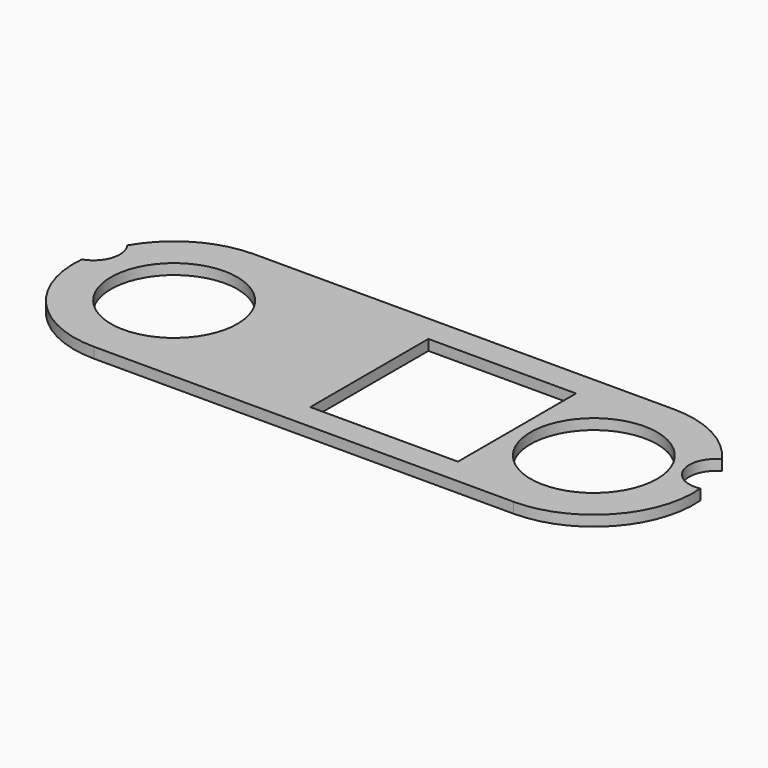
from build123d import *

# Parameters (mm, degrees)
F0_R     = 1.5875
F1_DEPTH = 1
F2_R     = 1.625
F2_R_2   = 2
F2_R_3   = 6
F2_W     = 14
F2_H     = 14
F2_W_2   = 23.3
F2_H_2   = 14.8
F2_W_3   = 13
F2_H_3   = 9.9
F3_DEPTH = 1.001
F7_DEPTH = 1.001


with BuildPart() as f1:
    # F0 (on Top) → F1 (new body)
    with BuildSketch(Plane.XY):
        with BuildLine():
            Line((-53.6, -21.2), (53.6, -21.2))
            ThreePointArc((53.6, -21.2), (55.014214, -20.614214), (55.6, -19.2))
            Line((55.6, -19.2), (55.6, -10.9))
            ThreePointArc((55.6, -10.9), (55.746447, -10.546447), (56.1, -10.4))
            Line((56.1, -10.4), (61.2, -10.4))
            ThreePointArc((61.2, -10.4), (64.278275, -9.506617), (66.4, -7.104078))
            Line((66.4, -7.104078), (66.4, -2.195922))
            ThreePointArc((66.4, -2.195922), (64.278275, 0.206617), (61.2, 1.1))
            Line((61.2, 1.1), (56.1, 1.1))
            ThreePointArc((56.1, 1.1), (55.746447, 1.246447), (55.6, 1.6))
            Line((55.6, 1.6), (55.6, 9.9))
            ThreePointArc((55.6, 9.9), (55.014214, 11.314214), (53.6, 11.9))
            Line((53.6, 11.9), (28.895582, 11.9))
            ThreePointArc((28.895582, 11.9), (25.215973, 12.358319), (21.761222, 13.70527))
            Line((21.761222, 13.70527), (11.238778, 19.39473))
            ThreePointArc((11.238778, 19.39473), (7.784027, 20.741681), (4.104418, 21.2))
            Line((4.104418, 21.2), (-50.6, 21.2))
            ThreePointArc((-50.6, 21.2), (-54.135534, 19.735534), (-55.6, 16.2))
            Line((-55.6, 16.2), (-55.6, -19.2))
            ThreePointArc((-55.6, -19.2), (-55.014214, -20.614214), (-53.6, -21.2))
        make_face()
        with Locations((-52.1, -17.7)):
            Circle(F0_R, mode=Mode.SUBTRACT)
        with Locations((61.2, -4.65)):
            Circle(F0_R, mode=Mode.SUBTRACT)
        with Locations((-52.1, 17.7)):
            Circle(F0_R, mode=Mode.SUBTRACT)
    extrude(amount=F1_DEPTH)

    # F2 (on face) → F3 (cut, through all)
    with BuildSketch(Plane.XY.offset(1)):
        with Locations((-47.02, 13.84)):
            Circle(F2_R)
        with Locations((-47.02, -15.16)):
            Circle(F2_R)
        with Locations((-40.02, -12.66)):
            Circle(F2_R_2)
        with Locations((-32.72, -12.66)):
            Circle(F2_R_2)
        with Locations((-36.77, 10.59)):
            Circle(F2_R_3)
        with Locations((3.03, 10.59)):
            Circle(F2_R_3)
        with Locations((-11.22, 10.54)):
            Rectangle(F2_W, F2_H)
        with Locations((-18.02, -10.86)):
            Rectangle(F2_W_2, F2_H_2)
        with Locations((-2.32, -12.66)):
            Circle(F2_R_2)
        with Locations((4.98, -12.66)):
            Circle(F2_R_2)
        with Locations((11.98, -15.16)):
            Circle(F2_R)
        with Locations((11.98, 13.84)):
            Circle(F2_R)
        with BuildLine():
            Line((37.656189, -4.65), (48.356189, -4.65))
            ThreePointArc((48.356189, -4.65), (43.006189, 0.7), (37.656189, -4.65))
        make_face()
        with Locations((25.482554, -9.6)):
            Rectangle(F2_W_3, F2_H_3)
        with Locations((25.482554, 0.3)):
            Rectangle(F2_W_3, F2_H_3)
        with BuildLine():
            ThreePointArc((37.656189, -4.65), (43.006189, -10), (48.356189, -4.65))
            Line((48.356189, -4.65), (37.656189, -4.65))
        make_face()
    extrude(amount=-F3_DEPTH, mode=Mode.SUBTRACT)

    # F6 (on face) → F7 (intersect, through all)
    with BuildSketch(Plane.XY.offset(1)):
        with BuildLine():
            Line((3.03, 20.09), (-36.77, 20.09))
            ThreePointArc((-36.77, 20.09), (-41.528618, 18.81226), (-45.007177, 15.322749))
            ThreePointArc((-45.007177, 15.322749), (-44.636923, 13.08439), (-46.229309, 11.468332))
            ThreePointArc((-46.229309, 11.468332), (-43.791188, 4.190553), (-36.77, 1.09))
            Line((-36.77, 1.09), (3.03, 1.09))
            ThreePointArc((3.03, 1.09), (10.025937, 4.162958), (12.495933, 11.393817))
            ThreePointArc((12.495933, 11.393817), (9.630133, 12.986696), (10.806132, 16.047268))
            ThreePointArc((10.806132, 16.047268), (7.41212, 19.01894), (3.03, 20.09))
        make_face()
    extrude(amount=-F7_DEPTH, mode=Mode.INTERSECT)


solid = f1.part
